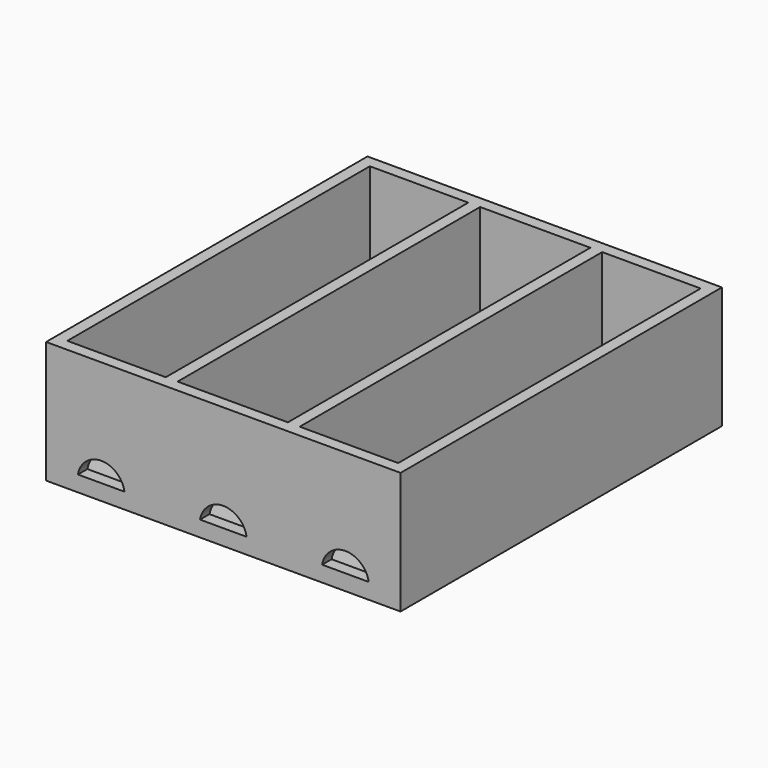
from build123d import *

# Parameters (mm, degrees)
F0_W          = 571.5
F0_H          = 196.85
F1_DEPTH      = 323.85
F2_T          = -19.05
F4_DEPTH      = 647.701
F5_W          = 19.05
F5_H          = 177.8
F6_DEPTH      = 304.8
F6_DEPTH_BACK = 304.8


with BuildPart() as f1:
    # F0 (on Front) → F1 (new body, symmetric)
    with BuildSketch(Plane.XZ):
        with Locations((0, 98.425)):
            Rectangle(F0_W, F0_H)
    extrude(amount=F1_DEPTH, both=True)

    # F2
    f2_openings = [f1.faces().sort_by_distance(p)[0] for p in [
        (0, 0, 196.85),
    ]]
    offset(amount=F2_T, openings=f2_openings)

    # F3 (on face) → F4 (cut, through all)
    with BuildSketch(Plane.XZ.offset(323.85)):
        with BuildLine():
            Line((-234.4171066227, 25.4), (-159.2828933773, 25.4))
            ThreePointArc((-159.2828933773, 25.4), (-196.85, 57.15), (-234.4171066227, 25.4))
        make_face()
        with BuildLine():
            Line((-37.5671066227, 25.4), (37.5671066227, 25.4))
            ThreePointArc((37.5671066227, 25.4), (0, 57.15), (-37.5671066227, 25.4))
        make_face()
        with BuildLine():
            ThreePointArc((234.4171066227, 25.4), (196.85, 57.15), (159.2828933773, 25.4))
            Line((159.2828933773, 25.4), (234.4171066227, 25.4))
        make_face()
    extrude(amount=-F4_DEPTH, mode=Mode.SUBTRACT)

    # F5 (on Front) → F6 (join, two sides)
    with BuildSketch(Plane.XZ) as f6_sk:
        with Locations((-98.425, 107.95)):
            Rectangle(F5_W, F5_H)
        with Locations((98.425, 107.95)):
            Rectangle(F5_W, F5_H)
    extrude(amount=F6_DEPTH)
    extrude(f6_sk.sketch, amount=-F6_DEPTH_BACK)


solid = f1.part
